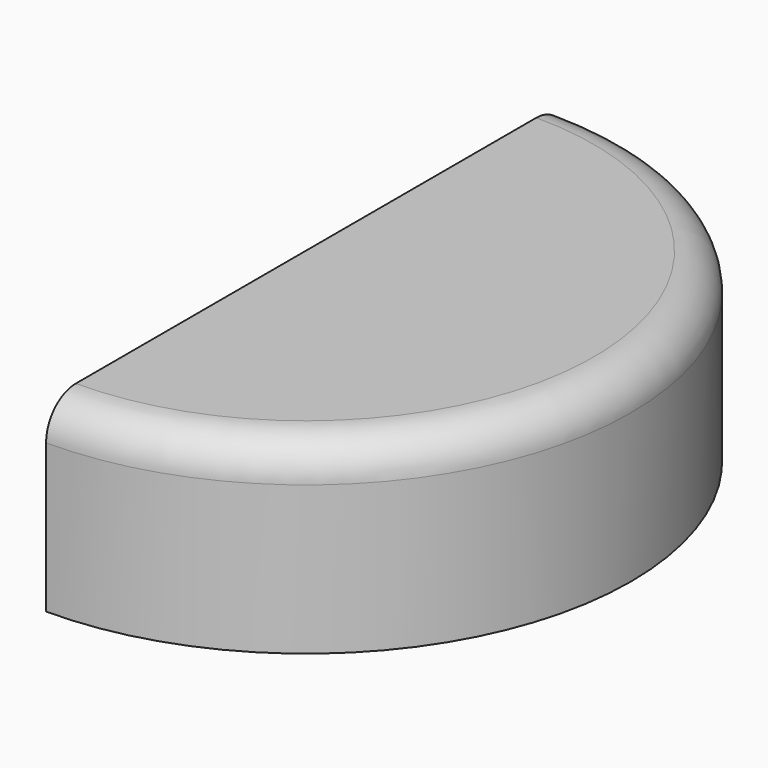
from build123d import *

# Parameters (mm, degrees)
F1_DEPTH = 12.7
F2_R     = 5.08


with BuildPart() as f1:
    # F0 (on Top) → F1 (new body, symmetric)
    with BuildSketch(Plane.XY):
        with BuildLine():
            ThreePointArc((0, -44.45), (44.45, 0), (0, 44.45))
            Line((0, 44.45), (0, -44.45))
        make_face()
    extrude(amount=F1_DEPTH, both=True)

    # F2
    f2_edges = [f1.edges().sort_by_distance(p)[0] for p in [
        (44.45, 0, 12.7),
    ]]
    fillet(f2_edges, radius=F2_R)


solid = f1.part
